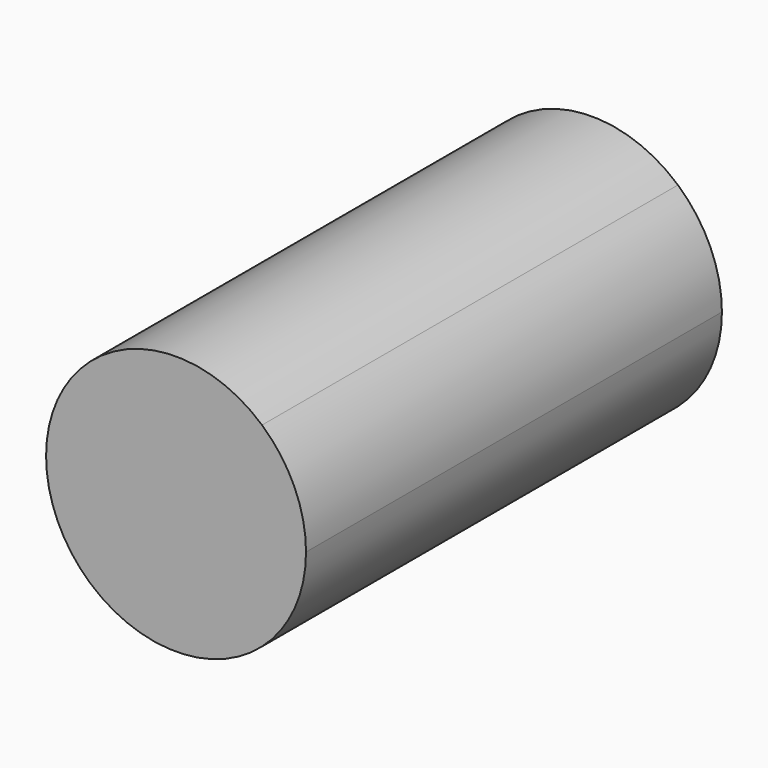
from build123d import *

# Parameters (mm, degrees)
F1_DEPTH = 40


with BuildPart() as f1:
    # F0 (on Front) → F1 (new body)
    with BuildSketch(Plane.XZ):
        with BuildLine():
            ThreePointArc((-6.6143782777, -7.5), (0, -10), (6.6143782777, -7.5))
            Line((6.6143782777, -7.5), (2.3e-08, -7.5))
            Line((2.3e-08, -7.5), (-6.6143782777, -7.5))
        make_face()
        with BuildLine():
            ThreePointArc((6.6143782777, -7.5), (9.1143782777, -4.1143782777), (10, 0))
            Line((10, 0), (7.5, 0))
            ThreePointArc((7.5, 0), (5.303300867, -5.3033008508), (2.3e-08, -7.5))
            Line((2.3e-08, -7.5), (6.6143782777, -7.5))
        make_face()
        with BuildLine():
            ThreePointArc((10, 0), (9.1143782777, 4.1143782777), (6.6143782777, 7.5))
            Line((6.6143782777, 7.5), (2.31e-08, 7.5))
            ThreePointArc((2.31e-08, 7.5), (5.3033008671, 5.3033008507), (7.5, 0))
            Line((7.5, 0), (10, 0))
        make_face()
        with BuildLine():
            Line((2.31e-08, 7.5), (6.6143782777, 7.5))
            ThreePointArc((6.6143782777, 7.5), (0, 10), (-6.6143782777, 7.5))
            Line((-6.6143782777, 7.5), (2.31e-08, 7.5))
        make_face()
        with BuildLine():
            ThreePointArc((-7.5, 0), (-5.3033008507, 5.3033008671), (2.31e-08, 7.5))
            Line((2.31e-08, 7.5), (-6.6143782777, 7.5))
            ThreePointArc((-6.6143782777, 7.5), (-9.1143782777, 4.1143782777), (-10, 0))
            Line((-10, 0), (-7.5, 0))
        make_face()
        with BuildLine():
            ThreePointArc((2.3e-08, -7.5), (-5.3033008508, -5.303300867), (-7.5, 0))
            Line((-7.5, 0), (-10, 0))
            ThreePointArc((-10, 0), (-9.1143782777, -4.1143782777), (-6.6143782777, -7.5))
            Line((-6.6143782777, -7.5), (2.3e-08, -7.5))
        make_face()
        with BuildLine():
            ThreePointArc((7.5, 0), (5.3033008671, 5.3033008507), (2.31e-08, 7.5))
            ThreePointArc((2.31e-08, 7.5), (-5.3033008507, 5.3033008671), (-7.5, 0))
            ThreePointArc((-7.5, 0), (-5.3033008508, -5.303300867), (2.3e-08, -7.5))
            ThreePointArc((2.3e-08, -7.5), (5.303300867, -5.3033008508), (7.5, 0))
        make_face()
    extrude(amount=F1_DEPTH)


solid = f1.part
